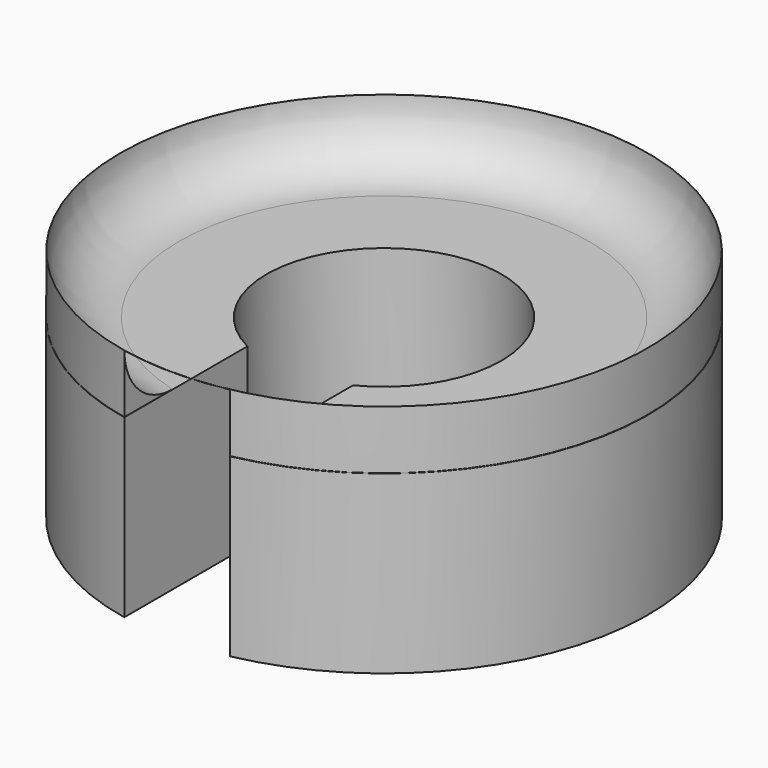
from build123d import *

# Parameters (mm, degrees)
F0_R      = 45
F2_DEPTH  = 30
F1_R      = 20
F3_DEPTH  = 40
F9_W      = 18
F9_H      = 58.0645236965
F10_DEPTH = 40
F11_T     = -2.5


with BuildPart() as f2:
    # F0 (on Top) → F2 (new body)
    with BuildSketch(Plane.XY):
        Circle(F0_R)
    extrude(amount=F2_DEPTH)


with BuildPart() as f3:
    # F1 (on Top) → F3 (new body)
    with BuildSketch(Plane.XY):
        Circle(F1_R)
    extrude(amount=F3_DEPTH)


with BuildPart() as f2_1:
    add(f2.part)

    # F4: cut F3
    add(f3.part, mode=Mode.SUBTRACT)


with BuildPart() as f7:
    # F5 (on Front) → F7 (revolve)
    with BuildSketch(Plane.XZ):
        with BuildLine():
            Line((-44.9697525129, 50.0337845905), (-44.9697525129, 40.0337845905))
            Line((-44.9697525129, 40.0337845905), (-34.9697525129, 40.0337845905))
            ThreePointArc((-34.9697525129, 40.0337845905), (-42.0408203248, 42.9627167786), (-44.9697525129, 50.0337845905))
        make_face()
    revolve(axis=Axis((0, 0, 0), (0, 0, 1)))


with BuildPart() as f7_1:
    # F8: moved
    add(f7.part.moved(Location((0, 0, -10))))


with BuildPart() as f10_tool:
    # F9 (on Top) → F10 (new body)
    with BuildSketch(Plane.XY):
        with Locations((0, -42.677423591)):
            Rectangle(F9_W, F9_H)
    extrude(amount=F10_DEPTH)


with BuildPart() as f2_2:
    add(f2_1.part)

    # F10: cut by f10_tool
    add(f10_tool.part, mode=Mode.SUBTRACT)

    # F11
    f11_openings = [f2_2.faces().sort_by_distance(p)[0] for p in [
        (0, 43.73362, 0),
    ]]
    offset(amount=F11_T, openings=f11_openings)


with BuildPart() as f7_2:
    add(f7_1.part)

    # F10: cut by f10_tool
    add(f10_tool.part, mode=Mode.SUBTRACT)


solid = Compound([f2_2.part, f7_2.part])
